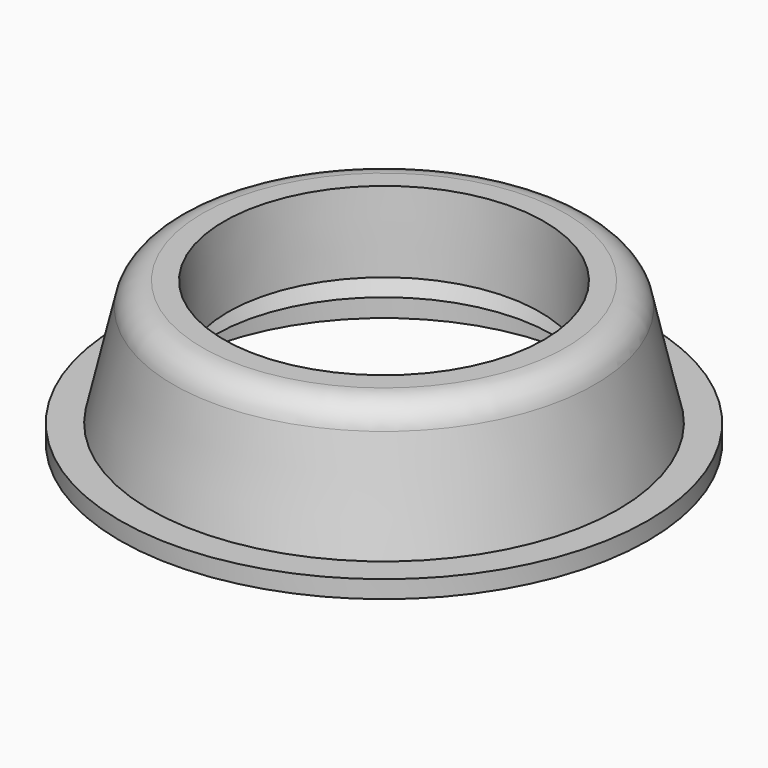
from build123d import *

# Parameters (mm, degrees)
F0_R      = 45
F1_DEPTH  = 3
F4_R      = 5.08
F5_R      = 26
F6_DEPTH  = 37.8739
F6_TAPER  = -3
F9_R      = 36
F10_DEPTH = 6.894


with BuildPart() as f1:
    # F0 (on Top) → F1 (new body)
    with BuildSketch(Plane.XY):
        Circle(F0_R)
    extrude(amount=F1_DEPTH)

    # F2 (on Front) → F3 (revolve)
    with BuildSketch(Plane.XZ):
        Polygon((-40.5863100491, 0), (0, 0), (0, 24.3678710608), (-35, 24.3678710608), align=None)
    revolve(axis=Axis((0, 0, -19.3198865833), (0, 0, -1)))

    # F4
    f4_edges = [f1.edges().sort_by_distance(p)[0] for p in [
        (35, 0, 24.367871),
    ]]
    fillet(f4_edges, radius=F4_R)

    # F5 (on Top) → F6 (cut, symmetric)
    with BuildSketch(Plane.XY):
        Circle(F5_R)
    extrude(amount=F6_DEPTH, both=True, taper=F6_TAPER, mode=Mode.SUBTRACT)

    # F7 (on Front) → F8 (revolve, cut)
    with BuildSketch(Plane.XZ):
        Polygon((35.8599051833, 18.4277258813), (30.9155862778, 18.4277258813), (20.1216544956, 0), (26.0245222598, 0), (31.2158084296, 13.110072352), (35.8599051833, 13.110072352), align=None)
    revolve(axis=Axis((0, 0, 14.1704455018), (0, 0, -1)), mode=Mode.SUBTRACT)

    # F9 (on face) → F10 (cut)
    with BuildSketch(Plane(origin=(0, 0, 0), x_dir=(1, 0, 0), z_dir=(0, 0, -1))):
        Circle(F9_R)
    extrude(amount=-F10_DEPTH, mode=Mode.SUBTRACT)


solid = f1.part
